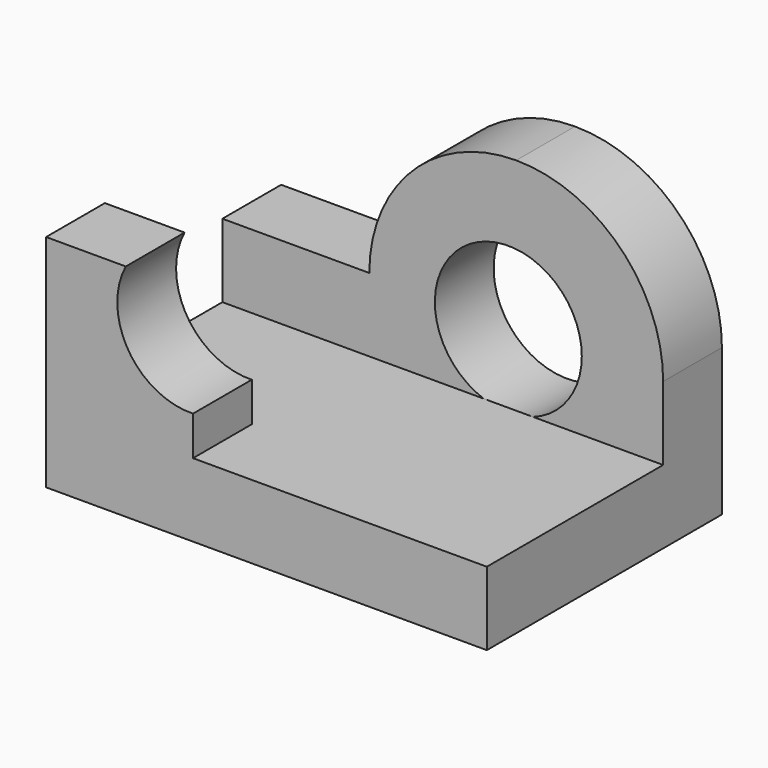
from build123d import *

# Parameters (mm, degrees)
F0_W      = 1524
F0_H      = 1016
F1_DEPTH  = 1016
F2_W      = 1016
F2_H      = 762
F3_DEPTH  = 254
F5_DEPTH  = 762
F6_W      = 508
F6_H      = 254
F7_DEPTH  = 254
F8_W      = 508
F8_H      = 508
F9_DEPTH  = 254
F11_DEPTH = 254
F12_R     = 254
F13_DEPTH = 254
F15_DEPTH = 254


with BuildPart() as f1:
    # F0 (on Front) → F1 (new body)
    with BuildSketch(Plane.XZ):
        with Locations((762, 508)):
            Rectangle(F0_W, F0_H)
    extrude(amount=F1_DEPTH)

    # F2 (on face) → F3 (cut)
    with BuildSketch(Plane.XZ.offset(1016)):
        with Locations((1016, 635)):
            Rectangle(F2_W, F2_H)
    extrude(amount=-F3_DEPTH, mode=Mode.SUBTRACT)

    # F4 (on face) → F5 (cut)
    with BuildSketch(Plane.XY.offset(1016)):
        Polygon((0, -762), (508, -762), (1524, -762), (1524, -254), (0, -254), align=None)
    extrude(amount=-F5_DEPTH, mode=Mode.SUBTRACT)

    # F6 (on face) → F7 (cut)
    with BuildSketch(Plane.XZ.offset(1016)):
        with Locations((254, 889)):
            Rectangle(F6_W, F6_H)
    extrude(amount=-F7_DEPTH, mode=Mode.SUBTRACT)

    # F8 (on face) → F9 (cut)
    with BuildSketch(Plane.XZ.offset(254)):
        with Locations((254, 762)):
            Rectangle(F8_W, F8_H)
    extrude(amount=-F9_DEPTH, mode=Mode.SUBTRACT)

    # F10 (on face) → F11 (cut)
    with BuildSketch(Plane.XZ.offset(254)):
        with BuildLine():
            Line((1524, 1016), (1016, 1016))
            ThreePointArc((1016, 1016), (1375.210245, 867.210245), (1524, 508))
            Line((1524, 508), (1524, 1016))
        make_face()
        with BuildLine():
            Line((508, 1016), (508, 508))
            ThreePointArc((508, 508), (656.789755, 867.210245), (1016, 1016))
            Line((1016, 1016), (508, 1016))
        make_face()
    extrude(amount=-F11_DEPTH, mode=Mode.SUBTRACT)

    # F12 (on face) → F13 (cut)
    with BuildSketch(Plane.XZ.offset(254)):
        with Locations((988.703072, 493.149191)):
            Circle(F12_R)
    extrude(amount=-F13_DEPTH, mode=Mode.SUBTRACT)

    # F14 (on face) → F15 (cut)
    with BuildSketch(Plane.XZ.offset(1016)):
        with BuildLine():
            Line((508, 762), (275.637895, 762))
            ThreePointArc((275.637895, 762), (284.796354, 509.020591), (508, 389.5945))
            Line((508, 389.5945), (508, 762))
        make_face()
    extrude(amount=-F15_DEPTH, mode=Mode.SUBTRACT)


solid = f1.part
